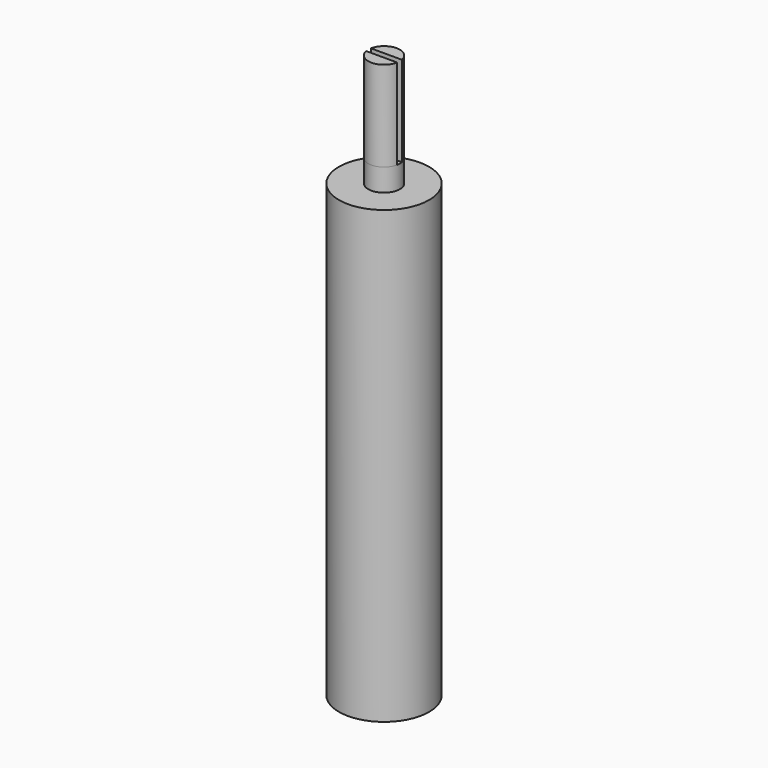
from build123d import *

# Parameters (mm, degrees)
F0_R     = 6.35
F1_DEPTH = 63.5
F2_R     = 2.2225
F3_DEPTH = 3.175
F5_DEPTH = 12.7


with BuildPart() as f1:
    # F0 (on Top) → F1 (new body)
    with BuildSketch(Plane.XY):
        Circle(F0_R)
    extrude(amount=F1_DEPTH)

    # F2 (on face) → F3 (join)
    with BuildSketch(Plane.XY.offset(63.5)):
        Circle(F2_R)
    extrude(amount=F3_DEPTH)

    # F4 (on face) → F5 (join)
    with BuildSketch(Plane.XY.offset(66.675)):
        with BuildLine():
            ThreePointArc((-2.182627, -0.4191), (0, -2.2225), (2.182627, -0.4191))
            Line((2.182627, -0.4191), (-2.182627, -0.4191))
        make_face()
        with BuildLine():
            ThreePointArc((2.182627, 0.4191), (0, 2.2225), (-2.182627, 0.4191))
            Line((-2.182627, 0.4191), (2.182627, 0.4191))
        make_face()
    extrude(amount=F5_DEPTH)


solid = f1.part
